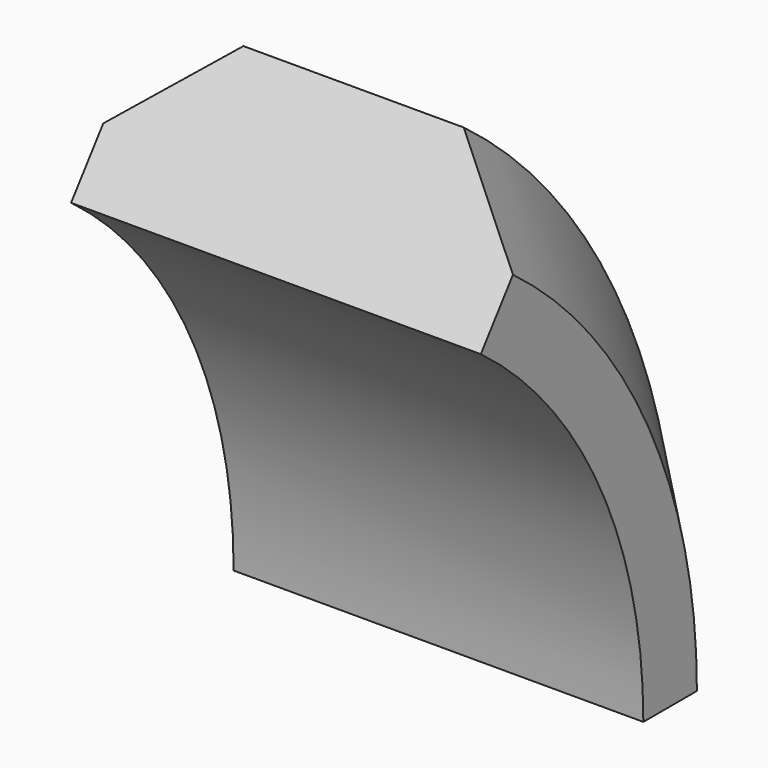
from build123d import *


with BuildPart() as f2:
    # F2: sweep along a path in F1
    with BuildLine(Plane.YZ) as f2_path:
        ThreePointArc((0, 0), (-1.675968, 7.099516), (-6.35, 12.7))
    # F0 (on Top) → F2 (sweep)
    with BuildSketch(Plane.XY):
        Polygon((4.856523, -3.832564), (4.856523, -2.245064), (2.611458, 0), (-2.611458, 0), (-4.856523, -2.245064), (-4.856523, -3.832564), align=None)
    sweep(path=f2_path.line)


solid = f2.part
